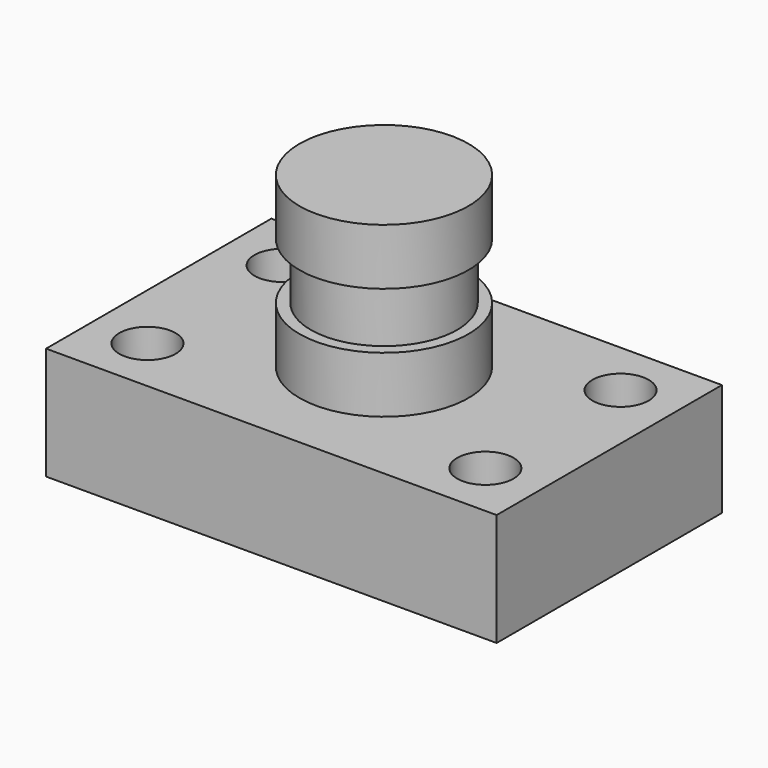
from build123d import *

# Parameters (mm, degrees)
F0_W     = 101.6
F0_H     = 63.5
F1_DEPTH = 25.4
F2_R     = 6.35
F3_DEPTH = 25.401
F4_W     = 19.05
F4_H     = 38.1
F6_W     = 2.54
F6_H     = 12.7


with BuildPart() as f1:
    # F0 (on Top) → F1 (new body)
    with BuildSketch(Plane.XY):
        Rectangle(F0_W, F0_H)
    extrude(amount=F1_DEPTH)

    # F2 (on face) → F3 (cut, through all)
    with BuildSketch(Plane.XY.offset(25.4)):
        with Locations((-38.1, 19.05)):
            Circle(F2_R)
        with Locations((-38.1, -19.05)):
            Circle(F2_R)
        with Locations((38.1, 19.05)):
            Circle(F2_R)
        with Locations((38.1, -19.05)):
            Circle(F2_R)
    extrude(amount=-F3_DEPTH, mode=Mode.SUBTRACT)

    # F4 (on Front) → F5 (revolve)
    with BuildSketch(Plane.XZ):
        with Locations((-9.525, 44.45)):
            Rectangle(F4_W, F4_H)
    revolve(axis=Axis((0, 0, 44.45), (0, 0, -1)))

    # F6 (on Front) → F8 (revolve, cut)
    with BuildSketch(Plane.XZ):
        with Locations((-17.78, 44.45)):
            Rectangle(F6_W, F6_H)
    revolve(axis=Axis((0, 0, 44.295382), (0, 0, -1)), mode=Mode.SUBTRACT)


solid = f1.part
